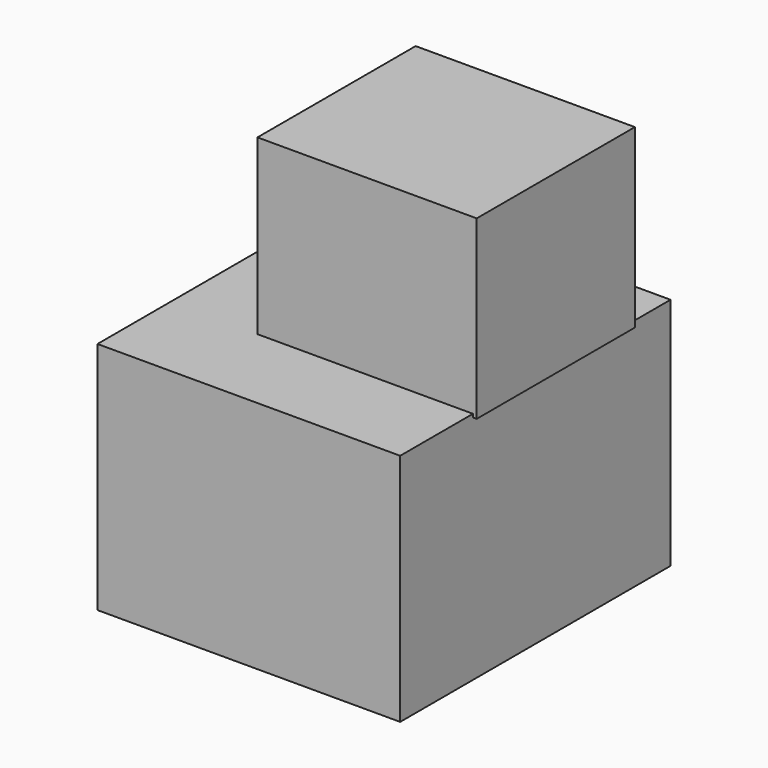
from build123d import *

# Parameters (mm, degrees)
F0_W      = 93.283134
F0_H      = 23.707865
F0_H_2    = 48.495702
F1_DEPTH  = 25.4
F1_FACE_W = 93.283134
F1_FACE_H = 72.203568
F2_DEPTH  = 78.74
F3_W      = 60.926704
F3_H      = 54.393658
F4_DEPTH  = 67.564


with BuildPart() as f1:
    # F0 (on Front) → F1 (new body)
    with BuildSketch(Plane.XZ):
        with Locations((19.762791, 11.853932)):
            Rectangle(F0_W, F0_H)
        with Locations((19.762791, -24.247851)):
            Rectangle(F0_W, F0_H_2)
    extrude(amount=F1_DEPTH)

    # F1_face (on face) → F2 (join)
    with BuildSketch(Plane(origin=(19.762791, -25.4, -12.393919), x_dir=(1, 0, 0), z_dir=(0, -1, 0))):
        Rectangle(F1_FACE_W, F1_FACE_H)
    extrude(amount=F2_DEPTH)

    # F3 (on Right) → F4 (join)
    with BuildSketch(Plane.YZ):
        with Locations((-45.643301, 49.9035)):
            Rectangle(F3_W, F3_H)
    extrude(amount=F4_DEPTH)


solid = f1.part
